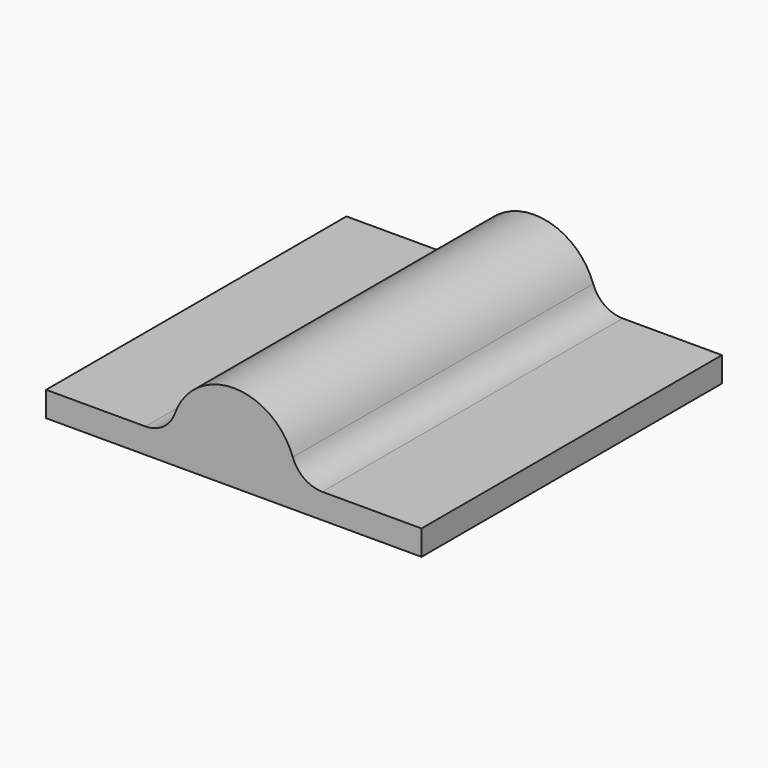
from build123d import *

# Parameters (mm, degrees)
F0_W     = 76.2
F0_H     = 76.2
F1_DEPTH = 5.08
F3_DEPTH = 76.2
F4_ANGLE = -90


with BuildPart() as f1:
    # F0 (on Front) → F1 (new body)
    with BuildSketch(Plane.XZ):
        with Locations((38.1, 38.1)):
            Rectangle(F0_W, F0_H)
    extrude(amount=-F1_DEPTH)

    # F2 (on face) → F3 (join)
    with BuildSketch(Plane(origin=(0, 0, 0), x_dir=(1, 0, 0), z_dir=(0, 0, -1))):
        with BuildLine():
            ThreePointArc((56.0605122421, 0), (52.3943380328, 1.1652467111), (50.0736748281, 4.2333333333))
            ThreePointArc((50.0736748281, 4.2333333333), (38.1, 12.7), (26.1263251719, 4.2333333333))
            ThreePointArc((26.1263251719, 4.2333333333), (23.8056619672, 1.1652467111), (20.1394877579, 0))
            Line((20.1394877579, 0), (56.0605122421, 0))
        make_face()
    extrude(amount=-F3_DEPTH)


with BuildPart() as f1_1:
    # F4: moved
    add(f1.part.rotate(Axis((10.0697438789, 0, 0), (1, 0, 0)), F4_ANGLE))


solid = f1_1.part
